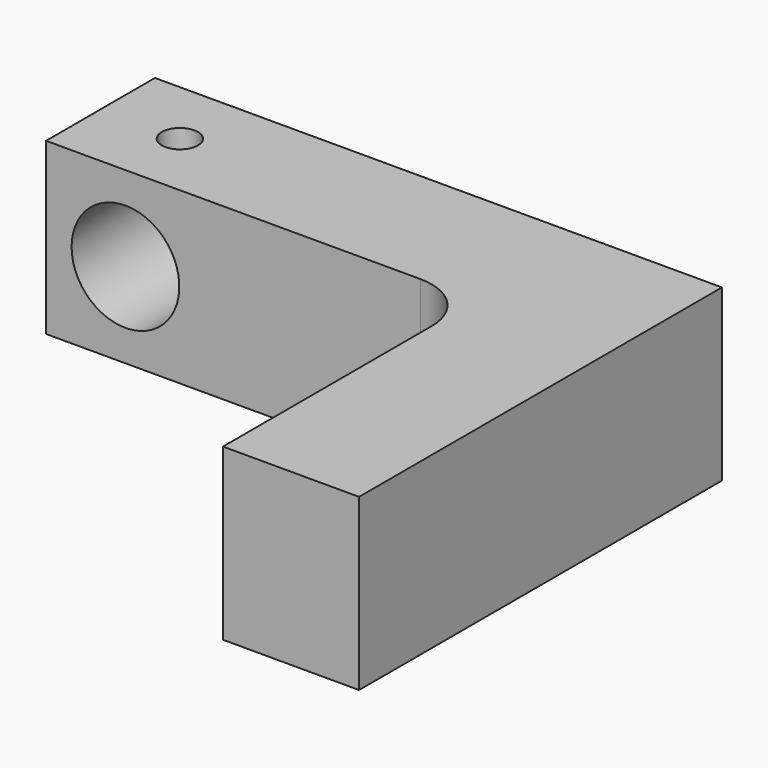
from build123d import *

# Parameters (mm, degrees)
F1_DEPTH = 15
F3_D     = 9.5
F5_D     = 3.2
F5_DEPTH = 7.5
F5_TIP   = 0.9613769904
F6_R     = 5


with BuildPart() as f1:
    # F0 (on Top) → F1 (new body)
    with BuildSketch(Plane.XY):
        Polygon((-38, 0), (0, 0), (0, -28), (12, -28), (12, 12), (-38, 12), align=None)
    extrude(amount=-F1_DEPTH)

    # F3 (through all)
    with Locations(Plane.XZ):
        with Locations((-31, -7.5)):
            Hole(F3_D / 2)

    # F5
    with Locations(Plane.XY):
        with Locations((-31, 6)):
            Hole(F5_D / 2, depth=F5_DEPTH)
            with Locations((0, 0, -(F5_DEPTH + F5_TIP / 2))):  # 118° drill point
                Cone(0, F5_D / 2, F5_TIP, mode=Mode.SUBTRACT)

    # F6
    f6_edges = [f1.edges().sort_by_distance(p)[0] for p in [
        (0, 0, -7.5),
    ]]
    fillet(f6_edges, radius=F6_R)


solid = f1.part
